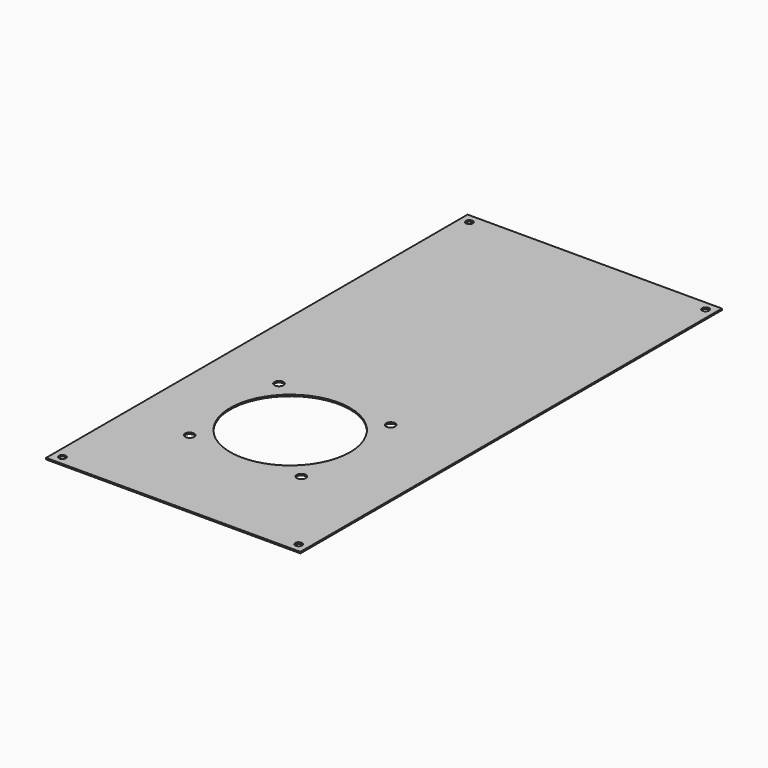
from build123d import *

# Parameters (mm, degrees)
F0_W     = 140
F0_H     = 290
F0_R     = 1.9
F0_R_2   = 2.5
F0_R_3   = 33
F1_DEPTH = 0.8


with BuildPart() as f1:
    # F0 (on Top) → F1 (new body)
    with BuildSketch(Plane.XY):
        with Locations((-673.602011, -620.319798)):
            Rectangle(F0_W, F0_H)
        with Locations((-738.602011, -760.319798)):
            Circle(F0_R, mode=Mode.SUBTRACT)
        with Locations((-708.602011, -710.319798)):
            Circle(F0_R_2, mode=Mode.SUBTRACT)
        with Locations((-708.602011, -648.819798)):
            Circle(F0_R_2, mode=Mode.SUBTRACT)
        with Locations((-677.852011, -679.569798)):
            Circle(F0_R_3, mode=Mode.SUBTRACT)
        with Locations((-647.102011, -710.319798)):
            Circle(F0_R_2, mode=Mode.SUBTRACT)
        with Locations((-608.602011, -760.319798)):
            Circle(F0_R, mode=Mode.SUBTRACT)
        with Locations((-647.102011, -648.819798)):
            Circle(F0_R_2, mode=Mode.SUBTRACT)
        with Locations((-738.602011, -480.319798)):
            Circle(F0_R, mode=Mode.SUBTRACT)
        with Locations((-608.602011, -480.319798)):
            Circle(F0_R, mode=Mode.SUBTRACT)
    extrude(amount=F1_DEPTH)


solid = f1.part
